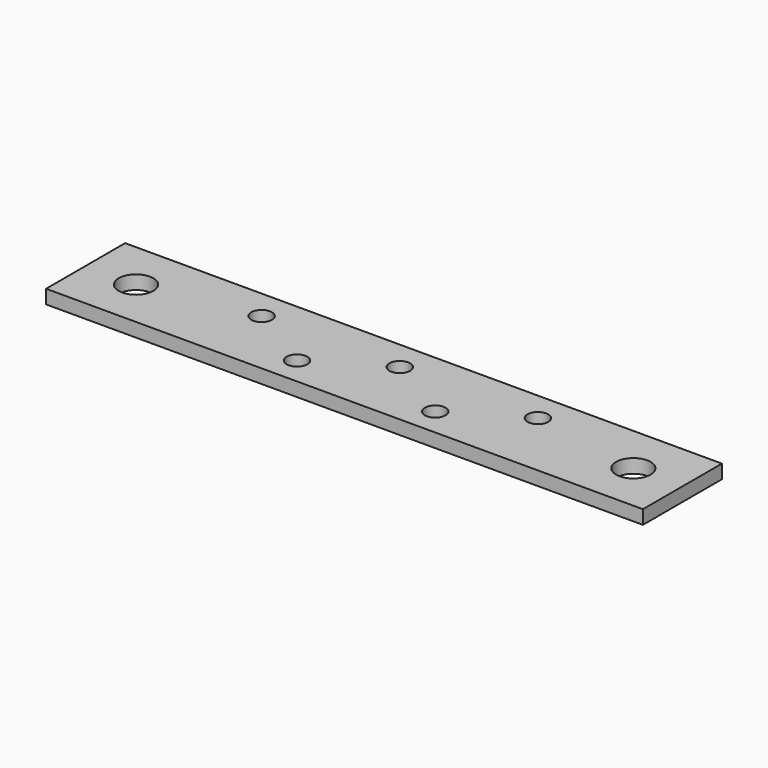
from build123d import *

# Parameters (mm, degrees)
F0_W     = 109.728
F0_H     = 18.161
F1_DEPTH = 2.54
F2_R     = 3.175
F3_DEPTH = 2.541
F5_D     = 3.7973


with BuildPart() as f1:
    # F0 (on Top) → F1 (new body)
    with BuildSketch(Plane.XY):
        with Locations((54.864, 9.0805)):
            Rectangle(F0_W, F0_H)
    extrude(amount=F1_DEPTH)

    # F2 (on face) → F3 (cut, through all)
    with BuildSketch(Plane.XY.offset(2.54)):
        with Locations((9.271, 9.0805)):
            Circle(F2_R)
        with Locations((100.711, 9.0805)):
            Circle(F2_R)
    extrude(amount=-F3_DEPTH, mode=Mode.SUBTRACT)

    # F5 (through all)
    with Locations(Plane.XY.offset(2.54)):
        with Locations((29.464, 12.7), (42.0722284243, 5.08), (54.864, 12.7), (67.4722284243, 5.08), (80.264, 12.7)):
            Hole(F5_D / 2)


solid = f1.part
